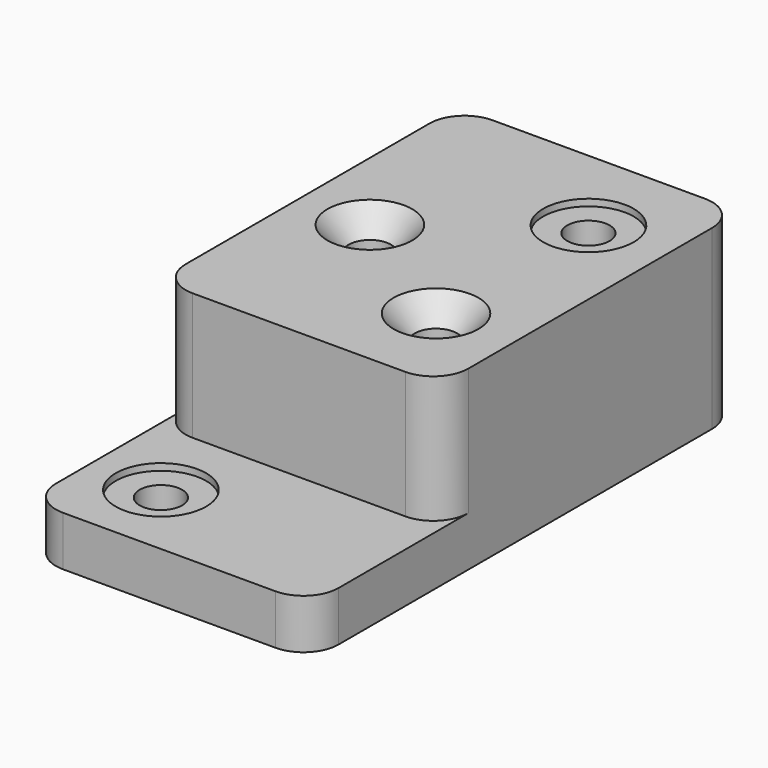
from build123d import *

# Parameters (mm, degrees)
F0_W           = 127
F0_H           = 241.3
F1_DEPTH       = 22.352
F2_W           = 127
F2_H           = 168.402
F3_DEPTH       = 57.15
F4_R           = 15.748
F6_D           = 19.05
F6_CSINK_D     = 38.1
F6_CSINK_ANGLE = 82
F7_D           = 19.05
F7_CBORE_D     = 40.64
F7_CBORE_DEPTH = 3.048
F8_D           = 19.05
F8_START       = 57.15
F8_CBORE_D     = 40.64
F8_CBORE_DEPTH = 3.048


with BuildPart() as f1:
    # F0 (on Top) → F1 (new body)
    with BuildSketch(Plane.XY):
        with Locations((-63.5, -120.65)):
            Rectangle(F0_W, F0_H)
    extrude(amount=F1_DEPTH)

    # F2 (on face) → F3 (join)
    with BuildSketch(Plane.XY.offset(22.352)):
        with Locations((-63.5, -84.201)):
            Rectangle(F2_W, F2_H)
    extrude(amount=F3_DEPTH)

    # F4
    f4_edges = [f1.edges().sort_by_distance(p)[0] for p in [
        (-127, -168.402, 50.927),
        (0, -168.402, 50.927),
        (0, 0, 39.751),
        (-127, 0, 39.751),
        (0, -241.3, 11.176),
        (-127, -241.3, 11.176),
    ]]
    fillet(f4_edges, radius=F4_R)

    # F6 (through all)
    with Locations(Plane.XY.offset(79.502)):
        with Locations((-95.25, -88.9), (-35.052, -127)):
            CounterSinkHole(F6_D / 2, F6_CSINK_D / 2, counter_sink_angle=F6_CSINK_ANGLE)

    # F7 (through all)
    with Locations(Plane.XY.offset(79.502)):
        with Locations((-35.052, -41.402)):
            CounterBoreHole(F7_D / 2, F7_CBORE_D / 2, F7_CBORE_DEPTH)

    # F8 (through all)
    # its depths count from where the whole tool has entered the part; down to there all is cleared
    with Locations(Plane.XY.offset(79.502).offset(-F8_START)):
        with Locations((-95.25, -206.248)):
            CounterBoreHole(F8_D / 2, F8_CBORE_D / 2, F8_CBORE_DEPTH)


solid = f1.part
